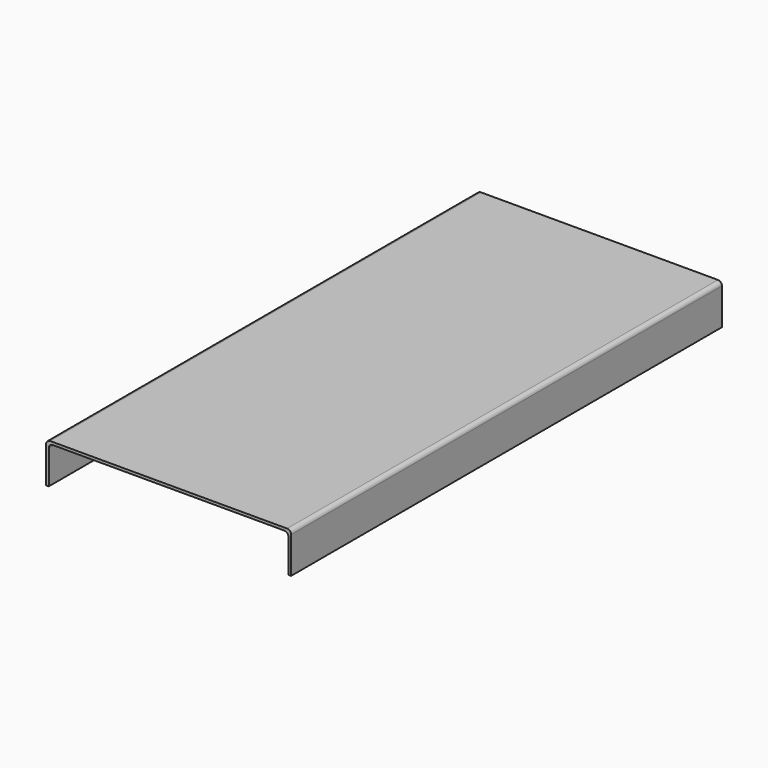
from build123d import *

# Parameters (mm, degrees)
F1_DEPTH = 400


with BuildPart() as f1:
    # F0 (on Front) → F1 (new body)
    with BuildSketch(Plane.XZ):
        with BuildLine():
            Line((88, 0), (0, 0))
            Line((0, 0), (-88, 0))
            ThreePointArc((-88, 0), (-90.12132, -0.87868), (-91, -3))
            Line((-91, -3), (-91, -30))
            Line((-91, -30), (-89, -30))
            Line((-89, -30), (-89, -5))
            ThreePointArc((-89, -5), (-88.12132, -2.87868), (-86, -2))
            Line((-86, -2), (0, -2))
            Line((0, -2), (86, -2))
            ThreePointArc((86, -2), (88.12132, -2.87868), (89, -5))
            Line((89, -5), (89, -30))
            Line((89, -30), (91, -30))
            Line((91, -30), (91, -3))
            ThreePointArc((91, -3), (90.12132, -0.87868), (88, 0))
        make_face()
    extrude(amount=F1_DEPTH)


solid = f1.part
